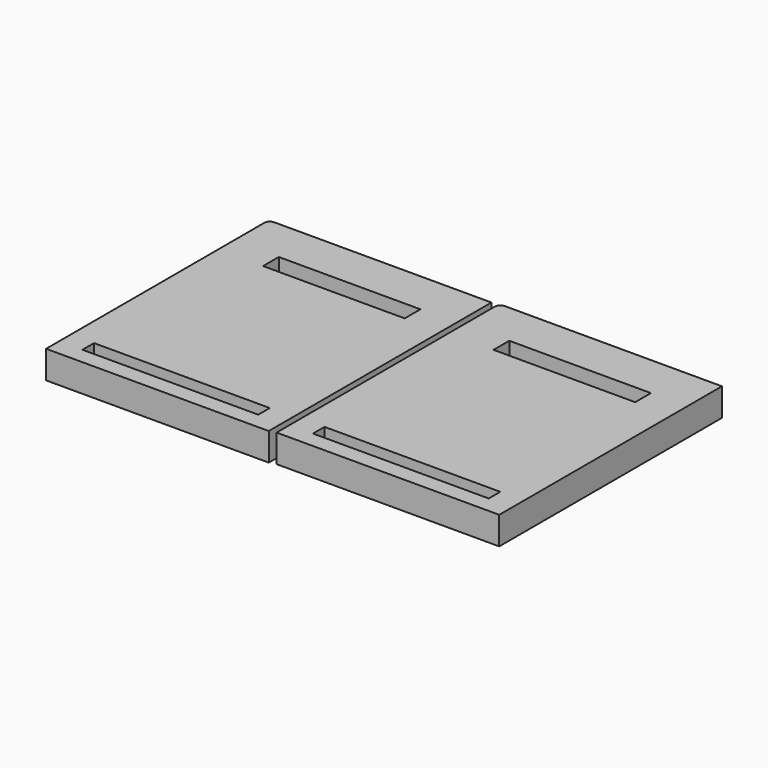
from build123d import *

# Parameters (mm, degrees)
F0_W     = 157.850109
F0_H     = 12.973979
F0_W_2   = 127.217107
F0_H_2   = 17.659031
F0_H_3   = 12.97398
F0_W_3   = 127.217106
F1_DEPTH = 25


with BuildPart() as f1:
    # F0 (on Top) → F1 (new body)
    with BuildSketch(Plane.XY):
        with BuildLine():
            Line((296.384121, 153.378814), (101.384121, 153.378814))
            ThreePointArc((101.384121, 153.378814), (97.848587, 151.914348), (96.384121, 148.378814))
            Line((96.384121, 148.378814), (96.384121, -96.621186))
            Line((96.384121, -96.621186), (296.384121, -96.621186))
            Line((296.384121, -96.621186), (296.384121, 153.378814))
        make_face()
        with Locations((196.193724, -75.369484)):
            Rectangle(F0_W, F0_H, mode=Mode.SUBTRACT)
        with Locations((200.338191, 105.365296)):
            Rectangle(F0_W_2, F0_H_2, mode=Mode.SUBTRACT)
        with BuildLine():
            Line((90.645454, 151.766678), (-104.354546, 151.766678))
            ThreePointArc((-104.354546, 151.766678), (-107.89008, 150.302212), (-109.354546, 146.766678))
            Line((-109.354546, 146.766678), (-109.354546, -98.233322))
            Line((-109.354546, -98.233322), (90.645454, -98.233322))
            Line((90.645454, -98.233322), (90.645454, 151.766678))
        make_face()
        with Locations((-9.544942, -76.981619)):
            Rectangle(F0_W, F0_H_3, mode=Mode.SUBTRACT)
        with Locations((-5.400475, 103.75316)):
            Rectangle(F0_W_3, F0_H_2, mode=Mode.SUBTRACT)
    extrude(amount=F1_DEPTH)


solid = f1.part
